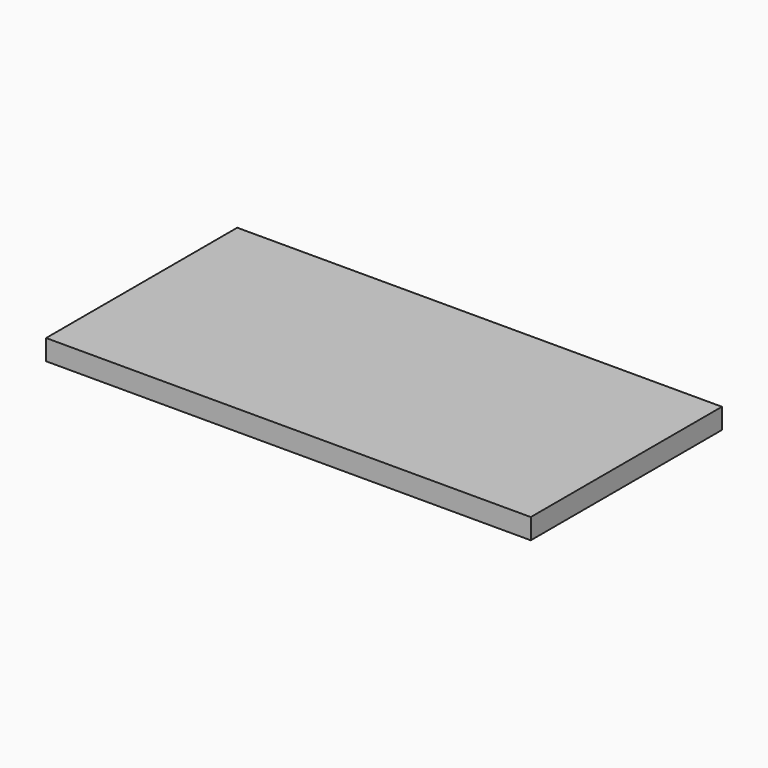
from build123d import *

# Parameters (mm, degrees)
F0_W     = 710
F0_H     = 350
F1_DEPTH = 30
F2_R     = 3
F3_DEPTH = 12
F4_R     = 3
F5_DEPTH = 12


with BuildPart() as f1:
    # F0 (on Top) → F1 (new body)
    with BuildSketch(Plane.XY):
        with Locations((355, 175)):
            Rectangle(F0_W, F0_H)
    extrude(amount=F1_DEPTH)

    # F2 (on face) → F3 (cut)
    with BuildSketch(Plane(origin=(0, 0, 0), x_dir=(1, 0, 0), z_dir=(0, 0, -1))):
        with Locations((20, -20)):
            Circle(F2_R)
        with Locations((690, -20)):
            Circle(F2_R)
        with Locations((690, -330)):
            Circle(F2_R)
        with Locations((20, -330)):
            Circle(F2_R)
    extrude(amount=-F3_DEPTH, mode=Mode.SUBTRACT)

    # F4 (on face) → F5 (cut)
    with BuildSketch(Plane(origin=(0, 0, 0), x_dir=(1, 0, 0), z_dir=(0, 0, -1))):
        with Locations((20, -330)):
            Circle(F4_R)
    extrude(amount=-F5_DEPTH, mode=Mode.SUBTRACT)


solid = f1.part
